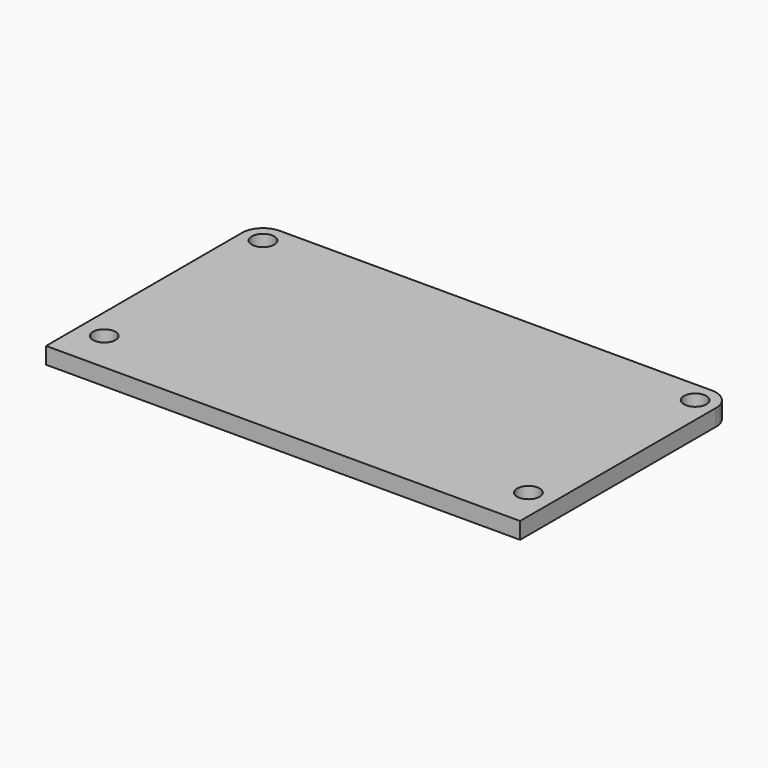
from build123d import *

# Parameters (mm, degrees)
F0_W     = 90.55
F0_H     = 50.8
F0_R     = 2.15265
F1_DEPTH = 3.175
F2_R     = 4


with BuildPart() as f1:
    # F0 (on Top) → F1 (new body)
    with BuildSketch(Plane.XY):
        with Locations((-45.275, -25.4)):
            Rectangle(F0_W, F0_H)
        with Locations((-85.7875, -42.8625)):
            Circle(F0_R, mode=Mode.SUBTRACT)
        with Locations((-4.7625, -42.8625)):
            Circle(F0_R, mode=Mode.SUBTRACT)
        with Locations((-86.55, -4)):
            Circle(F0_R, mode=Mode.SUBTRACT)
        with Locations((-4, -4)):
            Circle(F0_R, mode=Mode.SUBTRACT)
    extrude(amount=F1_DEPTH)

    # F2
    f2_edges = [f1.edges().sort_by_distance(p)[0] for p in [
        (0, 0, 1.5875),
        (-90.55, 0, 1.5875),
    ]]
    fillet(f2_edges, radius=F2_R)


solid = f1.part
